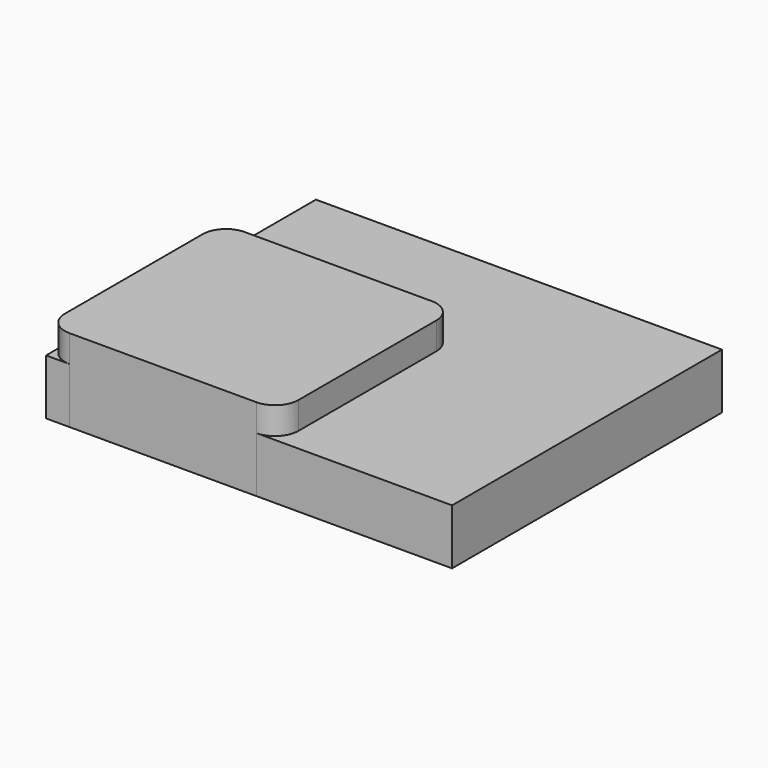
from build123d import *

# Parameters (mm, degrees)
F0_W     = 35.306
F0_H     = 29.337
F1_DEPTH = 4.826
F3_DEPTH = 7.1882


with BuildPart() as f1:
    # F0 (on Top) → F1 (new body)
    with BuildSketch(Plane.XY):
        with Locations((17.653, 14.6685)):
            Rectangle(F0_W, F0_H)
    extrude(amount=F1_DEPTH)


with BuildPart() as f3:
    # F2 (on Top) → F3 (new body)
    with BuildSketch(Plane.XY):
        with BuildLine():
            ThreePointArc((0, 2.032), (0.595159, 0.595159), (2.032, 0))
            Line((2.032, 0), (18.288, 0))
            ThreePointArc((18.288, 0), (19.724841, 0.595159), (20.32, 2.032))
            Line((20.32, 2.032), (20.32, 17.018))
            ThreePointArc((20.32, 17.018), (19.724841, 18.454841), (18.288, 19.05))
            Line((18.288, 19.05), (2.032, 19.05))
            ThreePointArc((2.032, 19.05), (0.595159, 18.454841), (0, 17.018))
            Line((0, 17.018), (0, 2.032))
        make_face()
    extrude(amount=F3_DEPTH)


solid = Compound([f1.part, f3.part])
